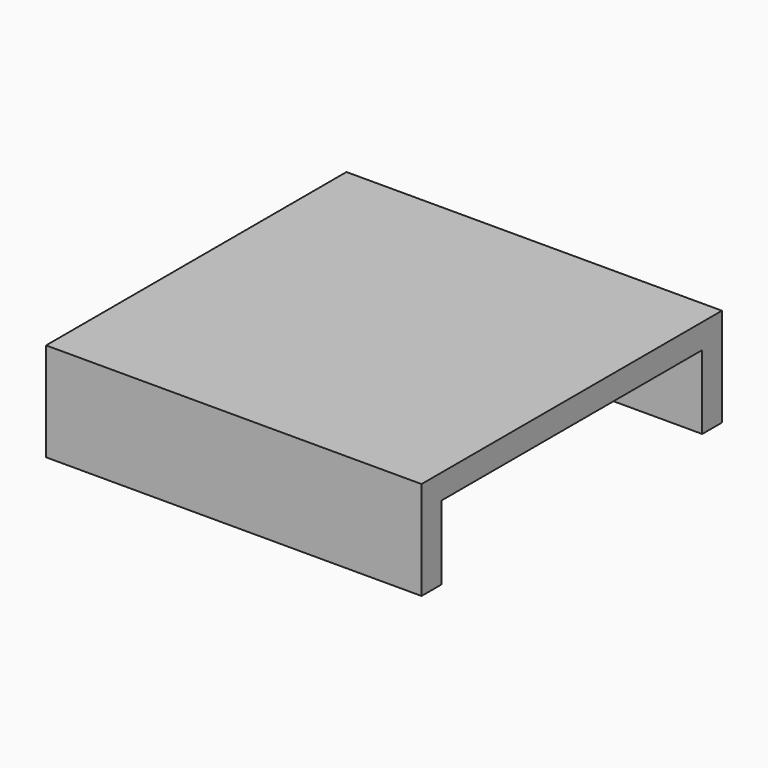
from build123d import *

# Parameters (mm, degrees)
F0_W     = 76.2
F0_H     = 76.2
F1_DEPTH = 20
F2_T     = -5


with BuildPart() as f1:
    # F0 (on Top) → F1 (new body)
    with BuildSketch(Plane.XY):
        Rectangle(F0_W, F0_H)
    extrude(amount=F1_DEPTH)

    # F2
    f2_openings = [f1.faces().sort_by_distance(p)[0] for p in [
        (0, 0, 0),
        (38.1, 0, 10),
    ]]
    offset(amount=F2_T, openings=f2_openings)


solid = f1.part
